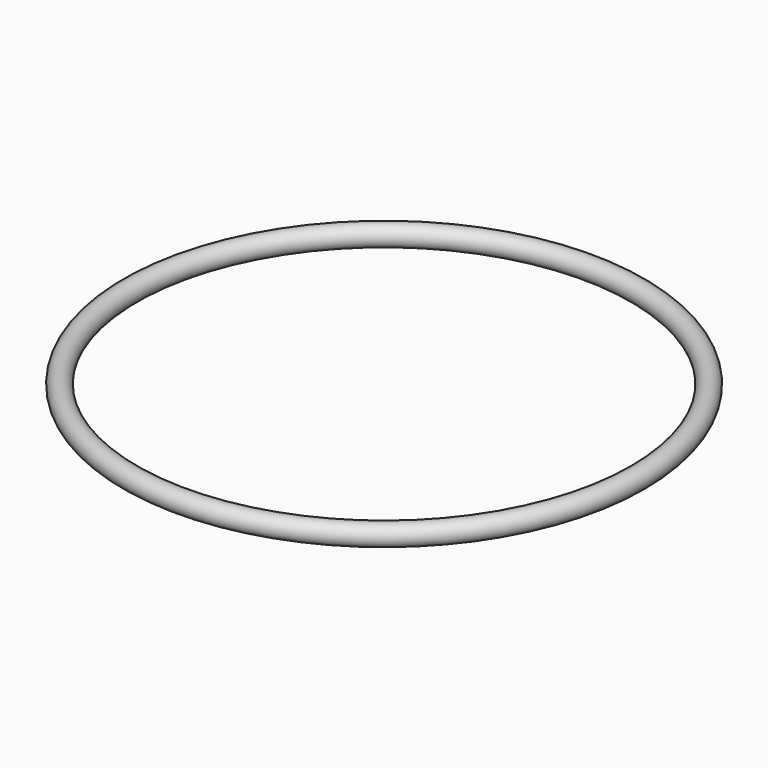
from build123d import *

# Parameters (mm, degrees)
TORUS_R = 1.5


with BuildPart() as part:
    # Torus → Torus (revolve)
    with BuildSketch(Plane.XZ):
        with Locations((36.5, 0)):
            Circle(TORUS_R)
    revolve(axis=Axis((0, 0, 0), (0, 0, 1)))


solid = part.part
